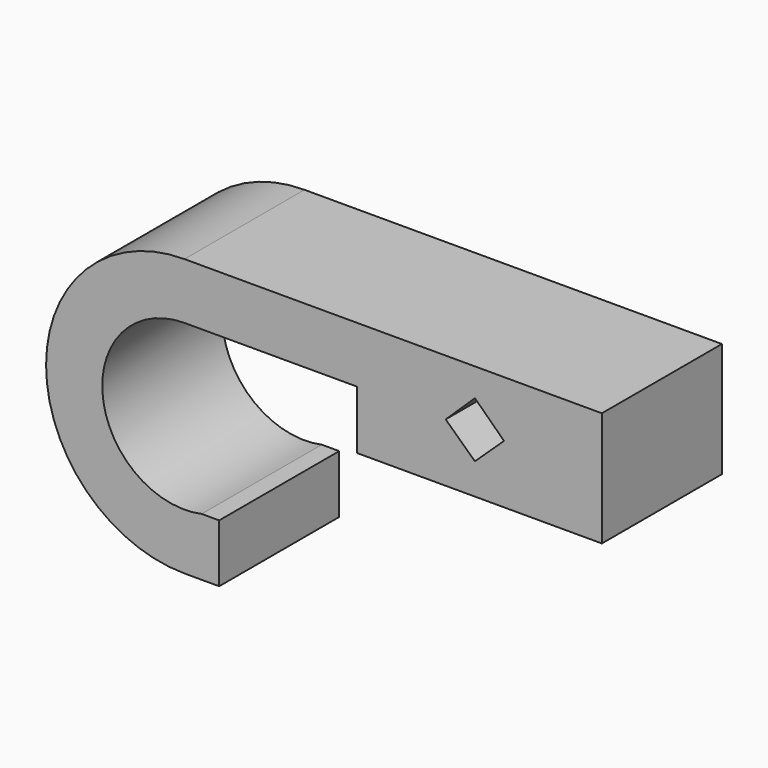
from build123d import *

# Parameters (mm, degrees)
F1_DEPTH = 25.4


with BuildPart() as f1:
    # F0 (on Front) → F1 (new body)
    with BuildSketch(Plane.XZ):
        with BuildLine():
            Line((0, -9.508435), (0, 0))
            Line((0, 0), (-70.656173, 0))
            ThreePointArc((-70.656173, 0), (-94.079392, -23.423219), (-70.656173, -46.846438))
            Line((-70.656173, -46.846438), (-64.78104, -46.846438))
            Line((-64.78104, -46.846438), (-64.78104, -37.028786))
            Line((-64.78104, -37.028786), (-67.73902, -37.028786))
            ThreePointArc((-67.73902, -37.028786), (-84.493437, -24.889967), (-70.656173, -9.508435))
            Line((-70.656173, -9.508435), (-41.43513, -9.508435))
            Line((-41.43513, -9.508435), (-41.43513, -19.403391))
            Line((-41.43513, -19.403391), (0, -19.403391))
            Line((0, -19.403391), (0, -9.508435))
        make_face()
        Polygon((-26.438087, -9.508435), (-21.490609, -4.734285), (-16.562456, -9.508435), (-21.490609, -14.146696), align=None, mode=Mode.SUBTRACT)
    extrude(amount=F1_DEPTH)


solid = f1.part
